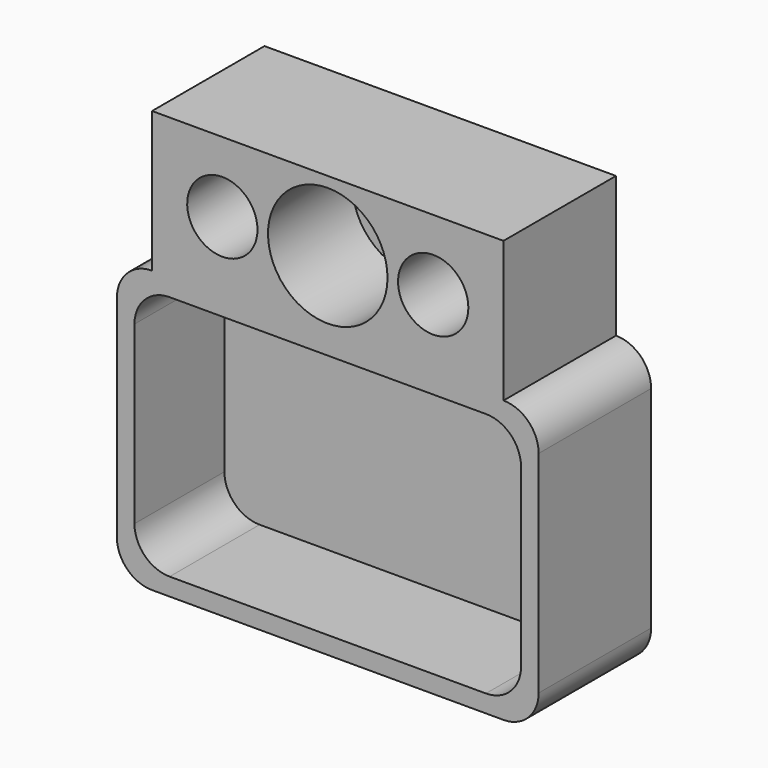
from build123d import *

# Parameters (mm, degrees)
F1_DEPTH = 50.8
F3_DEPTH = 40.64
F0_R     = 12.7
F4_DEPTH = 50.8
F5_DEPTH = 38.1


with BuildPart() as f1:
    # F0 (on Front) → F1 (new body)
    with BuildSketch(Plane.XZ):
        with BuildLine():
            Line((-63.5, -50.8), (63.5, -50.8))
            ThreePointArc((63.5, -50.8), (72.480256, -47.080256), (76.2, -38.1))
            Line((76.2, -38.1), (76.2, 38.1))
            ThreePointArc((76.2, 38.1), (72.480256, 47.080256), (63.5, 50.8))
            Line((63.5, 50.8), (-63.5, 50.8))
            ThreePointArc((-63.5, 50.8), (-72.480256, 47.080256), (-76.2, 38.1))
            Line((-76.2, 38.1), (-76.2, -38.1))
            ThreePointArc((-76.2, -38.1), (-72.480256, -47.080256), (-63.5, -50.8))
        make_face()
    extrude(amount=-F1_DEPTH)

    # F2 (on face) → F3 (cut)
    with BuildSketch(Plane.XZ):
        with BuildLine():
            Line((-57.15, -44.45), (57.15, -44.45))
            ThreePointArc((57.15, -44.45), (66.130256, -40.730256), (69.85, -31.75))
            Line((69.85, -31.75), (69.85, 31.75))
            ThreePointArc((69.85, 31.75), (66.130256, 40.730256), (57.15, 44.45))
            Line((57.15, 44.45), (-57.15, 44.45))
            ThreePointArc((-57.15, 44.45), (-66.130256, 40.730256), (-69.85, 31.75))
            Line((-69.85, 31.75), (-69.85, -31.75))
            ThreePointArc((-69.85, -31.75), (-66.130256, -40.730256), (-57.15, -44.45))
        make_face()
    extrude(amount=-F3_DEPTH, mode=Mode.SUBTRACT)

    # F0 (on Front) → F4 (join)
    with BuildSketch(Plane.XZ):
        Polygon((-63.5, 50.8), (63.5, 50.8), (63.5, 76.2), (63.5, 101.6), (0, 101.6), (-38.1, 101.6), (-63.5, 101.6), align=None)
        with BuildLine():
            ThreePointArc((-25.4, 76.2), (-47.080256, 67.219744), (-38.1, 88.9))
            ThreePointArc((-38.1, 88.9), (-29.119744, 85.180256), (-25.4, 76.2))
        make_face(mode=Mode.SUBTRACT)
        with BuildLine():
            ThreePointArc((21.59, 76.2), (-15.266435, 60.933565), (0, 97.79))
            ThreePointArc((0, 97.79), (15.266435, 91.466435), (21.59, 76.2))
        make_face(mode=Mode.SUBTRACT)
        with Locations((38.1, 76.2)):
            Circle(F0_R, mode=Mode.SUBTRACT)
        with Locations((38.1, 76.2)):
            Circle(F0_R)
        with BuildLine():
            ThreePointArc((21.59, 76.2), (15.266435, 91.466435), (0, 97.79))
            ThreePointArc((0, 97.79), (-15.266435, 60.933565), (21.59, 76.2))
        make_face()
        with BuildLine():
            ThreePointArc((-25.4, 76.2), (-29.119744, 85.180256), (-38.1, 88.9))
            ThreePointArc((-38.1, 88.9), (-47.080256, 67.219744), (-25.4, 76.2))
        make_face()
    extrude(amount=-F4_DEPTH)

    # F0 (on Front) → F5 (cut)
    with BuildSketch(Plane.XZ):
        with BuildLine():
            ThreePointArc((-25.4, 76.2), (-29.119744, 85.180256), (-38.1, 88.9))
            ThreePointArc((-38.1, 88.9), (-47.080256, 67.219744), (-25.4, 76.2))
        make_face()
        with BuildLine():
            ThreePointArc((21.59, 76.2), (15.266435, 91.466435), (0, 97.79))
            ThreePointArc((0, 97.79), (-15.266435, 60.933565), (21.59, 76.2))
        make_face()
        with Locations((38.1, 76.2)):
            Circle(F0_R)
    extrude(amount=-F5_DEPTH, mode=Mode.SUBTRACT)


solid = f1.part
